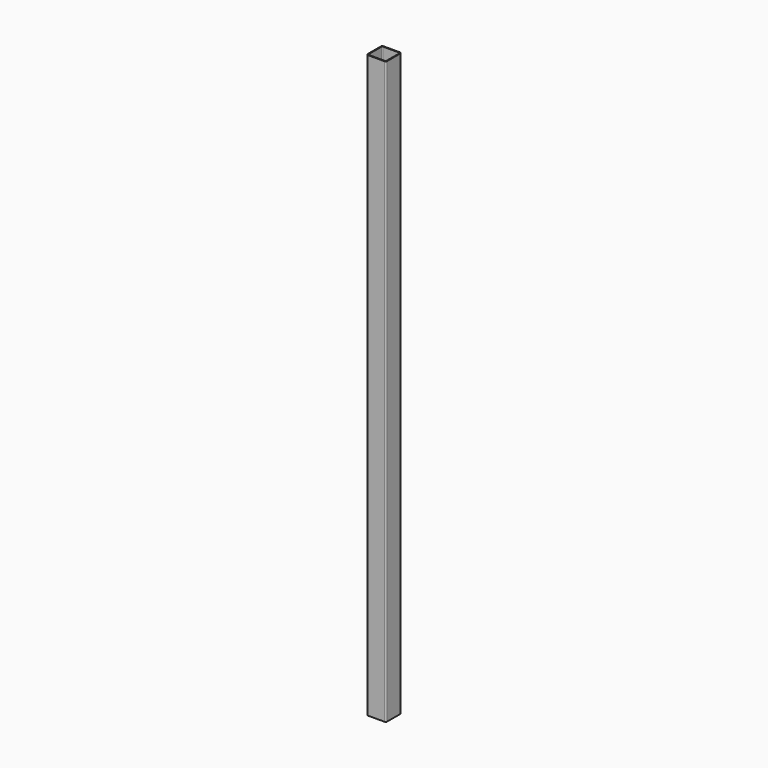
from build123d import *

# Parameters (mm, degrees)
F1_DEPTH = 1500


with BuildPart() as f1:
    # F0 (on Top) → F1 (new body)
    with BuildSketch(Plane.XY):
        with BuildLine():
            Line((-21, -25), (21, -25))
            ThreePointArc((21, -25), (23.828427, -23.828427), (25, -21))
            Line((25, -21), (25, 21))
            ThreePointArc((25, 21), (23.828427, 23.828427), (21, 25))
            Line((21, 25), (-21, 25))
            ThreePointArc((-21, 25), (-23.828427, 23.828427), (-25, 21))
            Line((-25, 21), (-25, -21))
            ThreePointArc((-25, -21), (-23.828427, -23.828427), (-21, -25))
        make_face()
        with BuildLine():
            Line((-21, 23), (21, 23))
            ThreePointArc((21, 23), (22.414214, 22.414214), (23, 21))
            Line((23, 21), (23, -21))
            ThreePointArc((23, -21), (22.414214, -22.414214), (21, -23))
            Line((21, -23), (-21, -23))
            ThreePointArc((-21, -23), (-22.414214, -22.414214), (-23, -21))
            Line((-23, -21), (-23, 21))
            ThreePointArc((-23, 21), (-22.414214, 22.414214), (-21, 23))
        make_face(mode=Mode.SUBTRACT)
    extrude(amount=F1_DEPTH)


solid = f1.part
